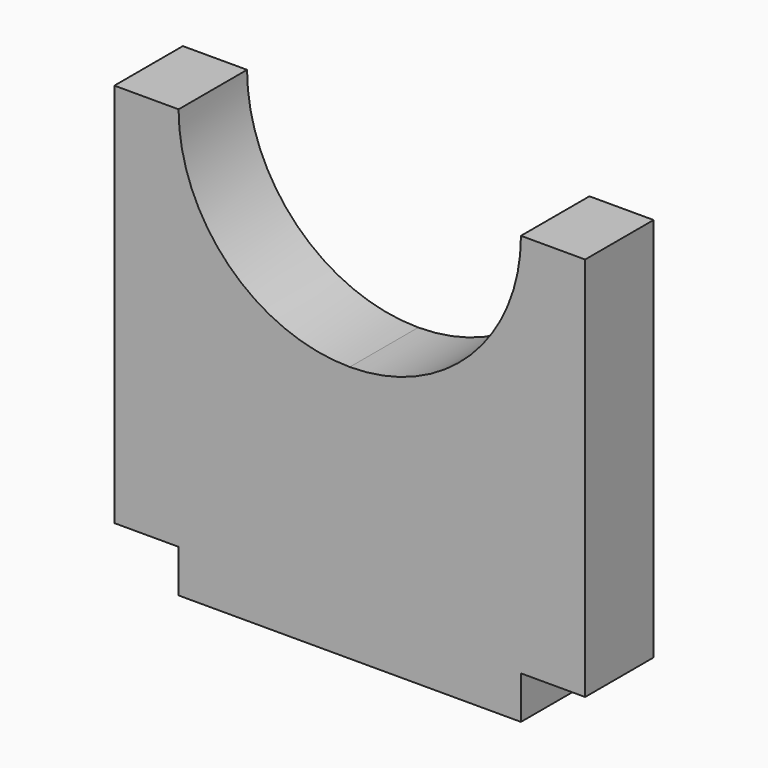
from build123d import *

# Parameters (mm, degrees)
F0_W     = 101.6
F0_H     = 12.7
F1_DEPTH = 25.4


with BuildPart() as f1:
    # F0 (on Front) → F1 (new body)
    with BuildSketch(Plane.XZ):
        with BuildLine():
            Line((69.85, -57.15), (69.85, 57.15))
            Line((69.85, 57.15), (50.8, 57.15))
            ThreePointArc((50.8, 57.15), (35.921024, 21.228976), (0, 6.35))
            ThreePointArc((0, 6.35), (-35.921024, 21.228976), (-50.8, 57.15))
            Line((-50.8, 57.15), (-69.85, 57.15))
            Line((-69.85, 57.15), (-69.85, -57.15))
            Line((-69.85, -57.15), (-50.8, -57.15))
            Line((-50.8, -57.15), (50.8, -57.15))
            Line((50.8, -57.15), (69.85, -57.15))
        make_face()
        with Locations((0, -63.5)):
            Rectangle(F0_W, F0_H)
    extrude(amount=F1_DEPTH)


solid = f1.part
